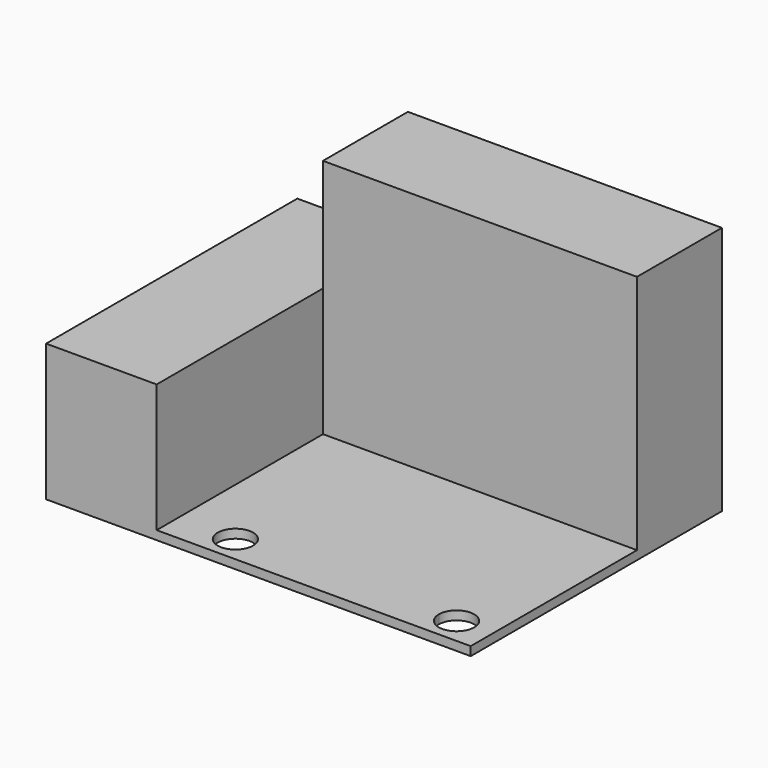
from build123d import *

# Parameters (mm, degrees)
F1_DEPTH = 14.5
F0_W     = 35.5
F0_H     = 12
F2_DEPTH = 27.2
F3_DEPTH = 1


with BuildPart() as f1:
    # F0 (on Top) → F1 (new body)
    with BuildSketch(Plane.XY):
        Polygon((-24, -17.75), (-11.5, -17.75), (-11.5, -16.75), (-11.5, 5.75), (-11.5, 17.75), (-24, 17.75), align=None)
    extrude(amount=F1_DEPTH)

    # F0 (on Top) → F2 (join)
    with BuildSketch(Plane.XY):
        with Locations((6.25, 11.75)):
            Rectangle(F0_W, F0_H)
    extrude(amount=F2_DEPTH)

    # F0 (on Top) → F3 (join)
    with BuildSketch(Plane.XY):
        with Locations((6.25, 11.75)):
            Rectangle(F0_W, F0_H)
        Polygon((-11.5, -17.75), (24, -17.75), (24, -16.75), (20, -16.75), (-5, -16.75), (-11.5, -16.75), align=None)
        Polygon((-24, -17.75), (-11.5, -17.75), (-11.5, -16.75), (-11.5, 5.75), (-11.5, 17.75), (-24, 17.75), align=None)
        with BuildLine():
            Line((-11.5, 5.75), (-11.5, -16.75))
            Line((-11.5, -16.75), (-5, -16.75))
            ThreePointArc((-5, -16.75), (-6.4142135624, -13.3357864376), (-3, -14.75))
            Line((-3, -14.75), (18, -14.75))
            ThreePointArc((18, -14.75), (20, -12.75), (22, -14.75))
            Line((22, -14.75), (24, -14.75))
            Line((24, -14.75), (24, 5.75))
            Line((24, 5.75), (-11.5, 5.75))
        make_face()
        with BuildLine():
            Line((-5, -16.75), (20, -16.75))
            ThreePointArc((20, -16.75), (18.5857864376, -16.1642135624), (18, -14.75))
            Line((18, -14.75), (-3, -14.75))
            ThreePointArc((-3, -14.75), (-3.5857864376, -16.1642135624), (-5, -16.75))
        make_face()
        with BuildLine():
            Line((20, -16.75), (24, -16.75))
            Line((24, -16.75), (24, -14.75))
            Line((24, -14.75), (22, -14.75))
            ThreePointArc((22, -14.75), (21.4142135624, -16.1642135624), (20, -16.75))
        make_face()
    extrude(amount=-F3_DEPTH)


solid = f1.part
